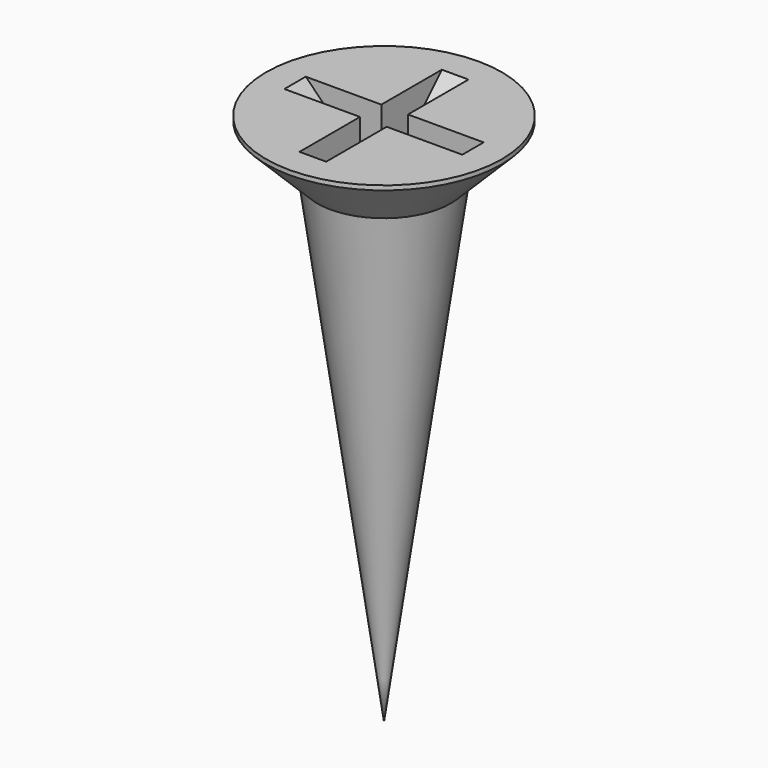
from build123d import *

# Parameters (mm, degrees)
POCKET002_DEPTH       = 0.3
POLARPATTERN001_COUNT = 2
POLARPATTERN001_ANGLE = 90


with BuildPart() as part:
    # Sketch015 → Revolution001 (revolve)
    with BuildSketch(Plane.XZ):
        Polygon((0, 0), (0, -12), (1.5, -1.25), (2.65, -0.1), (2.65, 0), align=None)
    revolve(axis=Axis((0, 0, 0), (0, 0, 1)))

    # Sketch016 → Pocket002 (cut, symmetric)
    with BuildSketch(Plane.XZ):
        Polygon((-2, 0), (0, -2), (2, 0), align=None)
    pocket002 = extrude(amount=POCKET002_DEPTH, both=True, mode=Mode.SUBTRACT)

    # PolarPattern001: Pocket002 ×2 about axis
    polarpattern001_axis = Axis((0, 0, 0), (0, 0, 1))
    for i in range(1, POLARPATTERN001_COUNT):
        add(pocket002.rotate(polarpattern001_axis, i * POLARPATTERN001_ANGLE / (POLARPATTERN001_COUNT - 1)), mode=Mode.SUBTRACT)


with BuildPart() as part_1:
    # Body012 placement: moved
    add(part.part.moved(Location((-19, 20, 6.2))))


solid = part_1.part
